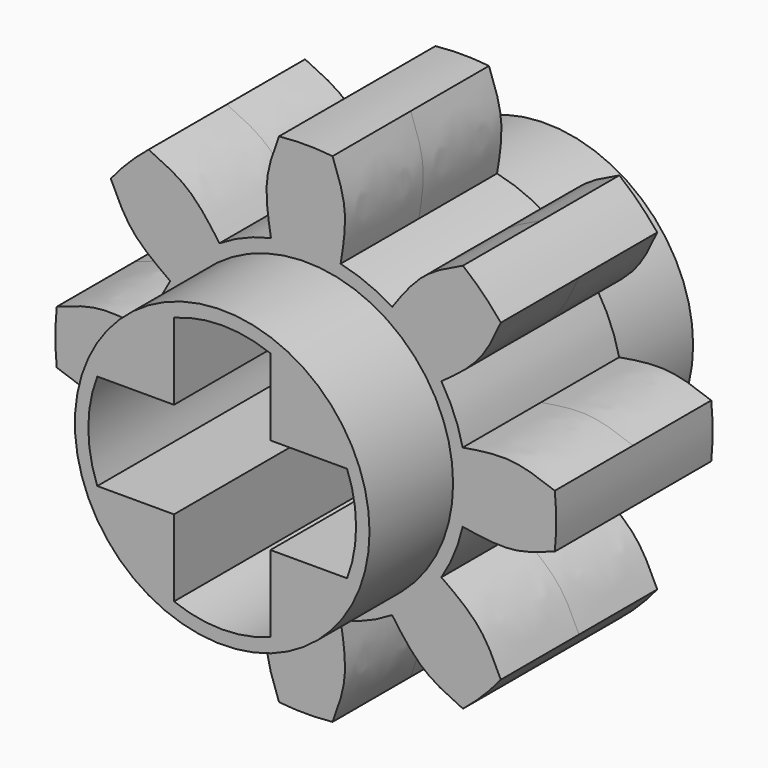
from build123d import *

# Parameters (mm, degrees)
F0_R     = 2.75
F1_DEPTH = 1.825
F3_COUNT = 8
F4_DEPTH = 3.775
F6_DEPTH = 7.551


with BuildPart() as f1:
    # F0 (on Front) → F1 (new body, symmetric)
    with BuildSketch(Plane.XZ):
        with BuildLine():
            add(Edge.make_bspline(
                [(0.5, 4.6481851297), (0.5992553827, 4.3830381396), (0.8018424102, 3.8418549905), (0.7012885529, 3.2371652786), (0.65, 2.9287369291)],
                knots=[0, 0, 0, 0, 0.489939479, 1, 1, 1, 1], degree=3))
            ThreePointArc((0.5, 4.6481851297), (0, 4.675), (-0.5, 4.6481851297))
            add(Edge.make_bspline(
                [(-0.5, 4.6481851297), (-0.5992553827, 4.3830381396), (-0.8018424102, 3.8418549905), (-0.7012885529, 3.2371652786), (-0.65, 2.9287369291)],
                knots=[0, 0, 0, 0, 0.489939479, 1, 1, 1, 1], degree=3))
            ThreePointArc((-0.65, 2.9287369291), (0, 3), (0.65, 2.9287369291))
        make_face()
        with BuildLine():
            ThreePointArc((3, 0), (2.3398717914, 1.8774983356), (0.65, 2.9287369291))
            ThreePointArc((0.65, 2.9287369291), (0, 3), (-0.65, 2.9287369291))
            ThreePointArc((-0.65, 2.9287369291), (-1.8774983356, -2.3398717914), (3, 0))
        make_face()
        Circle(F0_R, mode=Mode.SUBTRACT)
    extrude(amount=F1_DEPTH, both=True)

    # F3: F1 ×8 about axis
    f3_axis = Axis((0, -1.825, 0), (0, -1, 0))


with BuildPart() as f1_1:
    add(f1.part)
    for i in range(1, F3_COUNT):
        add(f1.part.rotate(f3_axis, i * 360 / F3_COUNT))

    # F0 (on Front) → F4 (join, symmetric)
    with BuildSketch(Plane.XZ):
        Circle(F0_R)
    extrude(amount=F4_DEPTH, both=True)

    # F5 (on face) → F6 (cut, through all)
    with BuildSketch(Plane.XZ.offset(3.775)):
        with BuildLine():
            ThreePointArc((2.3313088598, -0.9), (2.4567195445, -0.4577445572), (2.499, 0))
            ThreePointArc((2.499, 0), (2.4567195445, 0.4577445572), (2.3313088598, 0.9))
            Line((2.3313088598, 0.9), (0.9, 0.9))
            Line((0.9, 0.9), (0.9, 2.3313088598))
            ThreePointArc((0.9, 2.3313088598), (0, 2.499), (-0.9, 2.3313088598))
            Line((-0.9, 2.3313088598), (-0.9, 0.9))
            Line((-0.9, 0.9), (-2.3313088598, 0.9))
            ThreePointArc((-2.3313088598, 0.9), (-2.499, 0), (-2.3313088598, -0.9))
            Line((-2.3313088598, -0.9), (-0.9, -0.9))
            Line((-0.9, -0.9), (-0.9, -2.3313088598))
            ThreePointArc((-0.9, -2.3313088598), (0, -2.499), (0.9, -2.3313088598))
            Line((0.9, -2.3313088598), (0.9, -0.9))
            Line((0.9, -0.9), (2.3313088598, -0.9))
        make_face()
    extrude(amount=-F6_DEPTH, mode=Mode.SUBTRACT)


solid = f1_1.part
